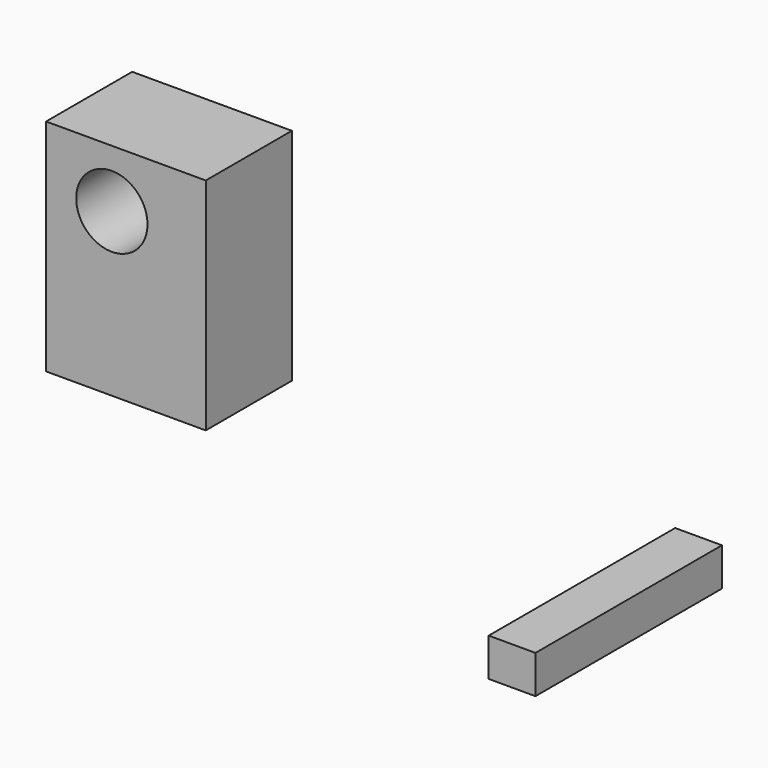
from build123d import *

# Parameters (mm, degrees)
F0_W     = 37.684418
F0_H     = 51.928796
F0_R     = 8.412793
F1_DEPTH = 25.4
F4_W     = 11.035368
F4_H     = 9.000774
F2_DEPTH = 55


with BuildPart() as f1:
    # F0 (on Front) → F1 (new body)
    with BuildSketch(Plane.XZ):
        with Locations((-88.683676, 10.213293)):
            Rectangle(F0_W, F0_H)
        with Locations((-92.00877, 22.553813)):
            Circle(F0_R, mode=Mode.SUBTRACT)
    extrude(amount=F1_DEPTH)


with BuildPart() as f2:
    # F4 (on face) → F2 (new body)
    with BuildSketch(Plane.XZ.offset(25.4)):
        with Locations((46.452332, -4.500387)):
            Rectangle(F4_W, F4_H)
    extrude(amount=F2_DEPTH)


solid = Compound([f1.part, f2.part])
